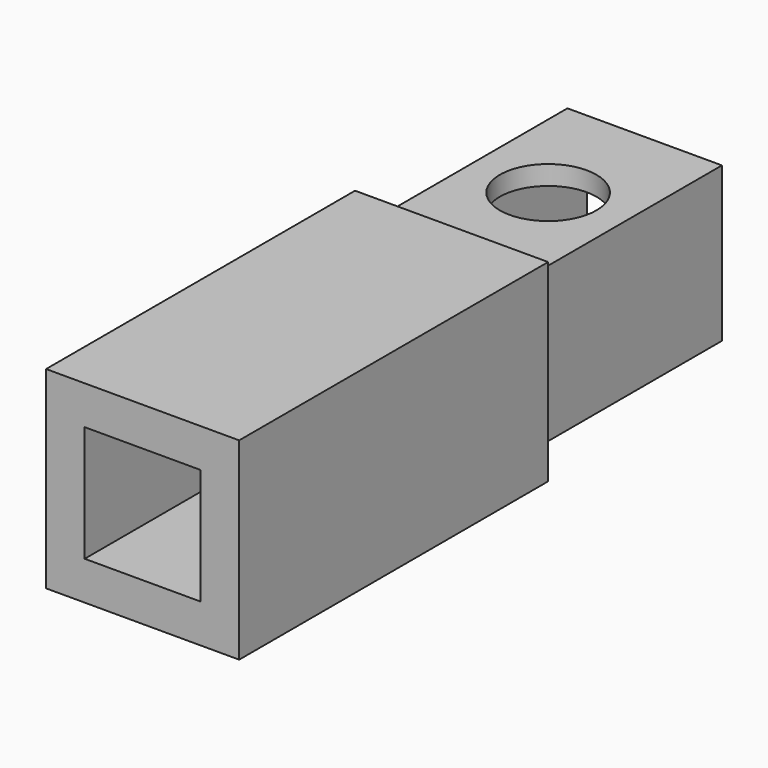
from build123d import *

# Parameters (mm, degrees)
F0_W     = 16
F0_H     = 16
F1_DEPTH = 25
F2_W     = 12
F2_H     = 12
F3_DEPTH = 25
F4_W     = 20
F4_H     = 20
F5_DEPTH = 40
F6_R     = 5
F7_DEPTH = 2
F8_W     = 12
F8_H     = 12
F9_DEPTH = 40


with BuildPart() as f1:
    # F0 (on Front) → F1 (new body)
    with BuildSketch(Plane.XZ):
        with Locations((13.521624, -11.600108)):
            Rectangle(F0_W, F0_H)
        with Locations((13.521624, -11.600108)):
            Rectangle(F0_W, F0_H)
    extrude(amount=F1_DEPTH)

    # F2 (on face) → F3 (cut)
    with BuildSketch(Plane(origin=(0, 0, 0), x_dir=(-1, 0, 0), z_dir=(0, 1, 0))):
        with Locations((-13.521624, -11.600108)):
            Rectangle(F2_W, F2_H)
    extrude(amount=-F3_DEPTH, mode=Mode.SUBTRACT)

    # F4 (on face) → F5 (join)
    with BuildSketch(Plane.XZ.offset(25)):
        with Locations((13.521624, -11.600108)):
            Rectangle(F4_W, F4_H)
    extrude(amount=F5_DEPTH)

    # F6 (on face) → F7 (cut, through all)
    with BuildSketch(Plane.XY.offset(-3.600108)):
        with Locations((13.521624, -12.5)):
            Circle(F6_R)
    extrude(amount=-F7_DEPTH, mode=Mode.SUBTRACT)

    # F8 (on face) → F9 (cut, through all)
    with BuildSketch(Plane(origin=(0, -25, 0), x_dir=(-1, 0, 0), z_dir=(0, 1, 0))):
        with Locations((-13.521624, -11.600108)):
            Rectangle(F8_W, F8_H)
    extrude(amount=-F9_DEPTH, mode=Mode.SUBTRACT)


solid = f1.part
